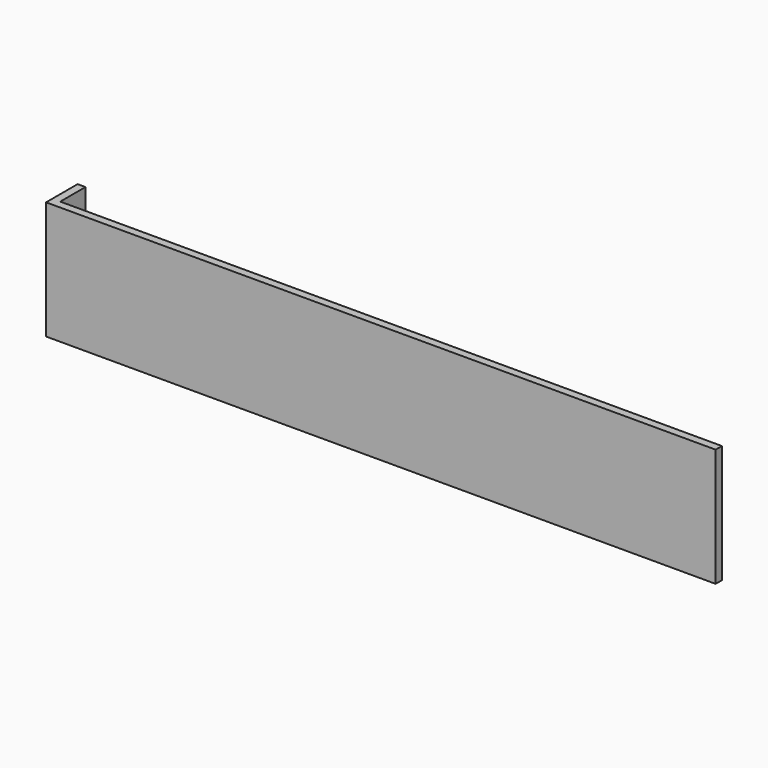
from build123d import *

# Parameters (mm, degrees)
PAD_DEPTH = 30


with BuildPart() as part:
    # Sketch → Pad (new body)
    with BuildSketch(Plane.XY):
        Polygon((0, 0), (170, 0), (170, 2), (2, 2), (2, 10), (0, 10), align=None)
    extrude(amount=PAD_DEPTH)


solid = part.part
